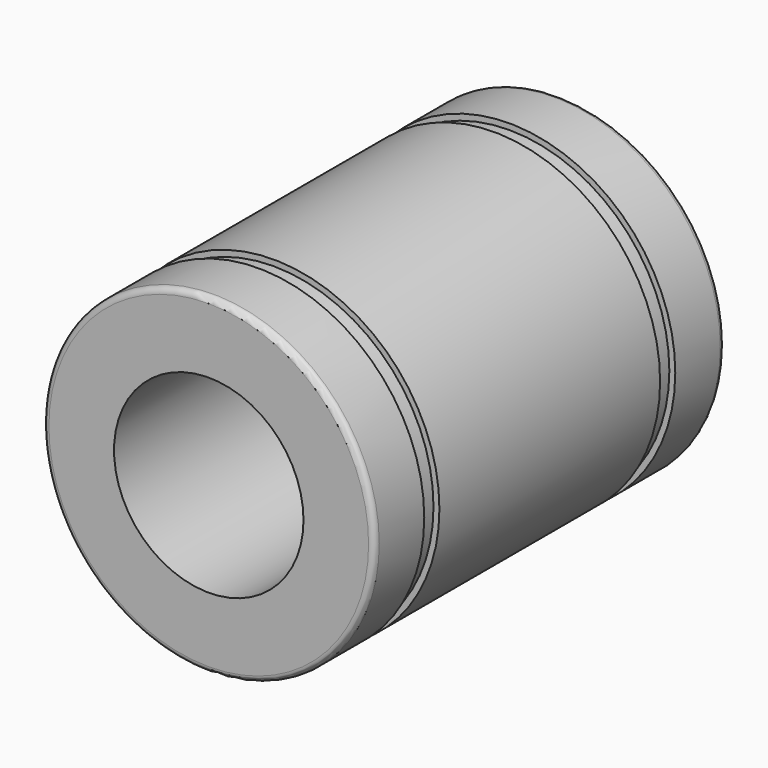
from build123d import *

# Parameters (mm, degrees)
F0_R     = 14
F0_R_2   = 8
F1_DEPTH = 18.5
F3_START = -5.25
F2_R     = 16.723627754
F2_R_2   = 13.5
F3_DEPTH = 1.6
F5_START = -5.25
F4_R     = 14
F4_R_2   = 13.5
F5_DEPTH = 1.6
F6_R     = 0.5


with BuildPart() as f1:
    # F0 (on Front) → F1 (new body, symmetric)
    with BuildSketch(Plane.XZ):
        Circle(F0_R)
        Circle(F0_R_2, mode=Mode.SUBTRACT)
    extrude(amount=F1_DEPTH, both=True)

    # F2 (on face) → F3 (cut)
    with BuildSketch(Plane.XZ.offset(18.5).offset(F3_START)):
        Circle(F2_R)
        Circle(F2_R_2, mode=Mode.SUBTRACT)
    extrude(amount=-F3_DEPTH, mode=Mode.SUBTRACT)

    # F4 (on face) → F5 (cut)
    with BuildSketch(Plane(origin=(0, 18.5, 0), x_dir=(-1, 0, 0), z_dir=(0, 1, 0)).offset(F5_START)):
        Circle(F4_R)
        Circle(F4_R_2, mode=Mode.SUBTRACT)
    extrude(amount=-F5_DEPTH, mode=Mode.SUBTRACT)

    # F6
    f6_edges = [f1.edges().sort_by_distance(p)[0] for p in [
        (-14, 18.5, 0),
        (-14, -18.5, 0),
    ]]
    fillet(f6_edges, radius=F6_R)


solid = f1.part
